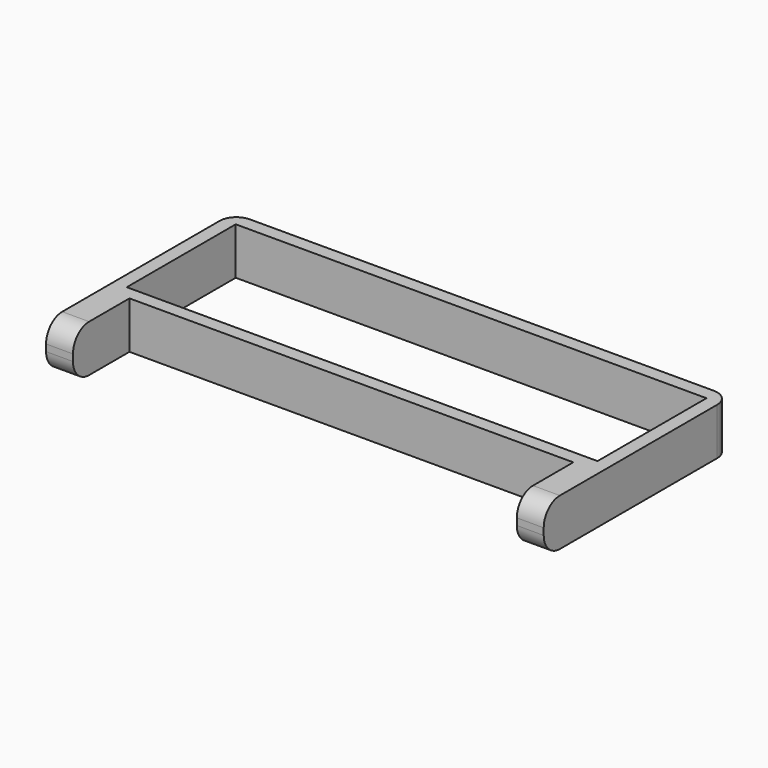
from build123d import *

# Parameters (mm, degrees)
SKETCH_W    = 140
SKETCH_H    = 40.5
PAD_DEPTH   = 14
FILLET_R    = 6
FILLET001_R = 6
FILLET002_R = 5


with BuildPart() as part:
    # Sketch → Pad (new body)
    with BuildSketch(Plane.XY):
        Polygon((-4, 44.5), (144, 44.5), (144, -25), (136, -25), (136, -4), (4, -4), (4, -25), (-4, -25), align=None)
        with Locations((70, 20.25)):
            Rectangle(SKETCH_W, SKETCH_H, mode=Mode.SUBTRACT)
    extrude(amount=PAD_DEPTH)

    # Fillet
    fillet_edges = [part.edges().sort_by_distance(p)[0] for p in [
        (0, -25, 14),
        (0, -25, 0),
    ]]
    fillet(fillet_edges, radius=FILLET_R)

    # Fillet001
    fillet001_edges = [part.edges().sort_by_distance(p)[0] for p in [
        (140, -25, 0),
        (140, -25, 14),
    ]]
    fillet(fillet001_edges, radius=FILLET001_R)

    # Fillet002
    fillet002_edges = [part.edges().sort_by_distance(p)[0] for p in [
        (-4, 44.5, 7),
        (144, 44.5, 7),
    ]]
    fillet(fillet002_edges, radius=FILLET002_R)


solid = part.part
